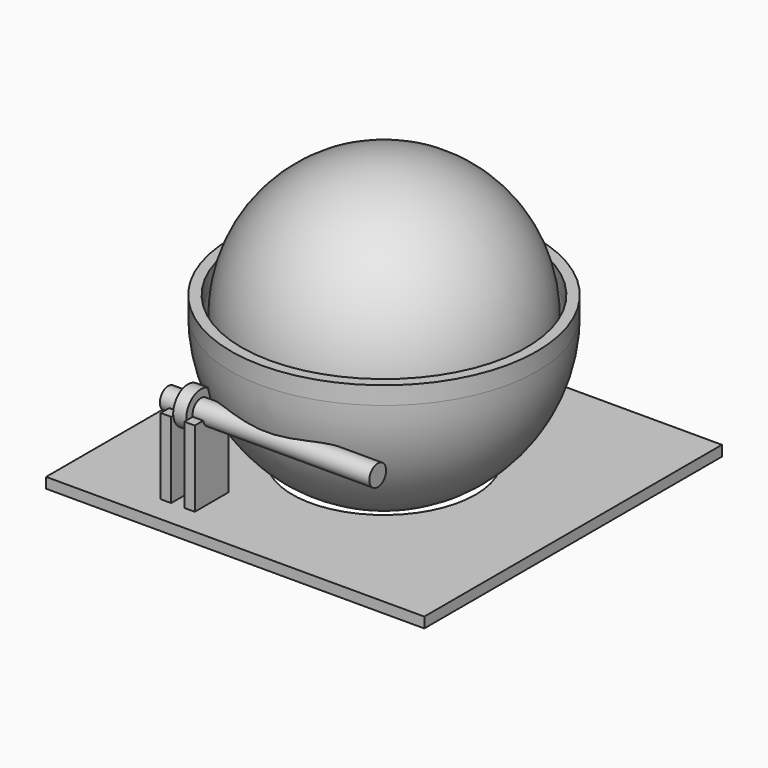
from build123d import *

# Parameters (mm, degrees)
F2_W      = 72.2135156393
F2_H      = 71.0371360183
F3_DEPTH  = 2
F4_R      = 17.5
F5_DEPTH  = 25
F7_R      = 3.5
F7_R_2    = 2
F8_DEPTH  = 1.25
F9_R      = 2
F10_DEPTH = 20
F18_R     = 3
F19_DEPTH = 1.25
F26_W     = 2
F26_H     = 8.0452038388
F27_DEPTH = 14.5
F26_H_2   = 8.072609423


with BuildPart() as f1:
    # F0 (on Front) → F1 (revolve)
    with BuildSketch(Plane.XZ):
        with BuildLine():
            Line((0, 26.2), (0, -26.2))
            ThreePointArc((0, -26.2), (26.2, 0), (0, 26.2))
        make_face()
    revolve(axis=Axis((0, 0, 0), (0, 0, -1)))


with BuildPart() as f3:
    # F2 (on Top) → F3 (new body)
    with BuildSketch(Plane.XY):
        Rectangle(F2_W, F2_H)
    extrude(amount=F3_DEPTH)

    # F4 (on face) → F5 (cut)
    with BuildSketch(Plane.XY.offset(2)):
        Circle(F4_R)
    extrude(amount=-F5_DEPTH, mode=Mode.SUBTRACT)


with BuildPart() as f3_1:
    # F6: moved
    add(f3.part.moved(Location((0, 0, -26.5))))


with BuildPart() as f8:
    # F7 (on Right) → F8 (new body, symmetric)
    with BuildSketch(Plane.YZ):
        Circle(F7_R)
        Circle(F7_R_2, mode=Mode.SUBTRACT)
    extrude(amount=F8_DEPTH, both=True)


with BuildPart() as f10:
    # F9 (on Right) → F10 (new body, symmetric)
    with BuildSketch(Plane.YZ):
        Circle(F9_R)
    extrude(amount=F10_DEPTH, both=True)


with BuildPart() as f8_1:
    # F15: moved
    add(f8.part.moved(Location((0, -26.4993319062, -9.6449680418))))


with BuildPart() as f10_1:
    # F15: moved
    add(f10.part.moved(Location((0, -26.4993319062, -9.6449680418))))


with BuildPart() as f8_2:
    # F16: moved
    add(f8_1.part.moved(Location((-15, 0, 0))))


with BuildPart() as f19:
    # F18 (on Right) → F19 (new body, symmetric)
    with BuildSketch(Plane.YZ):
        Circle(F18_R)
    extrude(amount=F19_DEPTH, both=True)


with BuildPart() as f21:
    # F20 (on Front) → F21 (revolve)
    with BuildSketch(Plane.XZ):
        Polygon((5.1, 0), (5.1, 4), (3.1, 4), (3.1, 2), (2, 2), (2, 0), align=None)
    revolve(axis=Axis((0, 0, 21.1588587624), (0, 0, 1)))


with BuildPart() as f24:
    # F23 (on Right) → F24 (revolve)
    with BuildSketch(Plane.YZ):
        with BuildLine():
            Line((0, -29.2), (0, 3.3971256776))
            Line((0, 3.3971256776), (-29.2, 3.3971256776))
            Line((-29.2, 3.3971256776), (-29.2, 0))
            ThreePointArc((-29.2, 0), (-20.6475180106, -20.6475180106), (0, -29.2))
        make_face()
    revolve(axis=Axis((0, 0, -12.9014371612), (0, 0, -1)))

    # F22 (on Right) → F25 (revolve, cut)
    with BuildSketch(Plane.YZ):
        with BuildLine():
            Line((0, -27.2), (0, 0))
            Line((0, 0), (0, 4.1564793358))
            Line((0, 4.1564793358), (-27.2, 4.1564793358))
            Line((-27.2, 4.1564793358), (-27.2, 0))
            ThreePointArc((-27.2, 0), (-19.2333044483, -19.2333044483), (0, -27.2))
        make_face()
    revolve(axis=Axis((0, 0, -13.6), (0, 0, -1)), mode=Mode.SUBTRACT)


with BuildPart() as f27:
    # F26 (on face) → F27 (new body)
    with BuildSketch(Plane.XY.offset(-24.5)):
        with Locations((-12.75, -26.4551232205)):
            Rectangle(F26_W, F26_H)
    extrude(amount=F27_DEPTH)


with BuildPart() as f27b:
    # F26 (on face) → F27, piece 2 (new body)
    with BuildSketch(Plane.XY.offset(-24.5)):
        with Locations((-17.25, -26.4414204285)):
            Rectangle(F26_W, F26_H_2)
    extrude(amount=F27_DEPTH)


solid = Compound([f1.part, f3_1.part, f10_1.part, f8_2.part, f19.part, f21.part, f24.part, f27.part, f27b.part])
